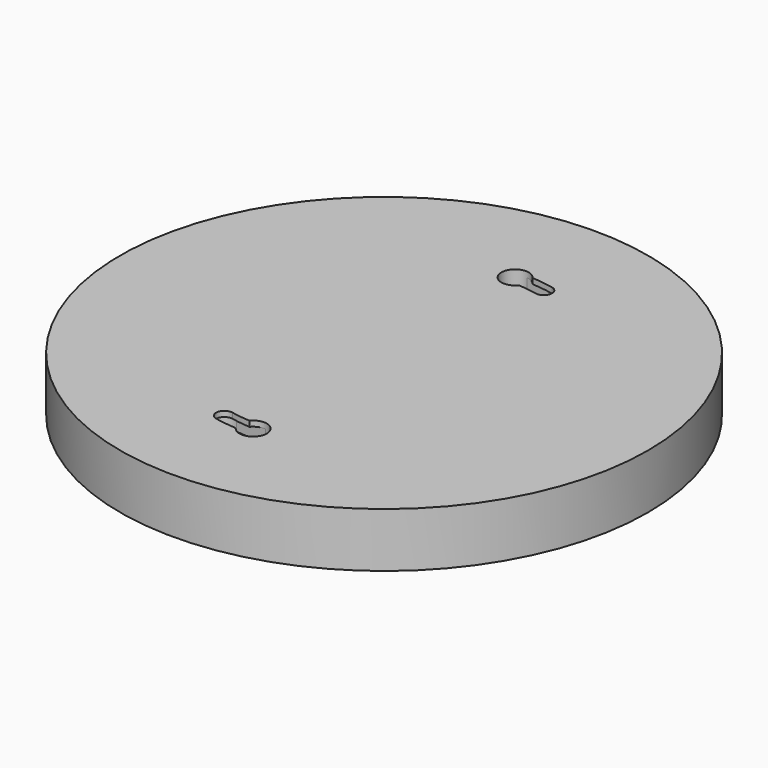
from build123d import *

# Parameters (mm, degrees)
SKETCH_R           = 48.380289
PAD_DEPTH          = 10
POCKET_DEPTH       = 3
POCKET001_DEPTH    = 2.5
POLARPATTERN_COUNT = 2


with BuildPart() as part:
    # Sketch → Pad (new body)
    with BuildSketch(Plane.XY):
        Circle(SKETCH_R)
    extrude(amount=PAD_DEPTH)

    # Sketch001 (on Face3 of Pad) → Pocket (cut)
    with BuildSketch(Plane.XY.offset(10)):
        with BuildLine():
            ThreePointArc((2.048306, 31.433333), (-2.49861, 30.083359), (1.948219, 28.433333))
            ThreePointArc((5.438052, 27.976376), (3.700196, 28.258778), (1.948219, 28.433333))
            ThreePointArc((5.438052, 27.976376), (7.19671, 29.162599), (6.010484, 30.921256))
            ThreePointArc((6.010484, 30.921256), (4.037521, 31.240173), (2.048306, 31.433333))
        make_face()
    pocket = extrude(amount=-POCKET_DEPTH, mode=Mode.SUBTRACT)

    # Sketch002 (on Face3 of Pocket) → Pocket001 (cut)
    with BuildSketch(Plane.XY.offset(9)):
        with BuildLine():
            ThreePointArc((0.239614, 32.48849), (-2.48849, 30.239614), (-0.239614, 27.51151))
            Line((-0.239614, 27.51151), (5.484655, 26.960325))
            ThreePointArc((5.484655, 26.960325), (8.21276, 29.209201), (5.963884, 31.937306))
            Line((5.963884, 31.937306), (0.239614, 32.48849))
        make_face()
    pocket001 = extrude(amount=-POCKET001_DEPTH, mode=Mode.SUBTRACT)

    # PolarPattern: Pocket, Pocket001 ×2 about axis
    polarpattern_axis = Axis((0, 0, 10), (0, 0, 1))
    for i in range(1, POLARPATTERN_COUNT):
        add(pocket.rotate(polarpattern_axis, i * 360 / POLARPATTERN_COUNT), mode=Mode.SUBTRACT)
        add(pocket001.rotate(polarpattern_axis, i * 360 / POLARPATTERN_COUNT), mode=Mode.SUBTRACT)


solid = part.part
